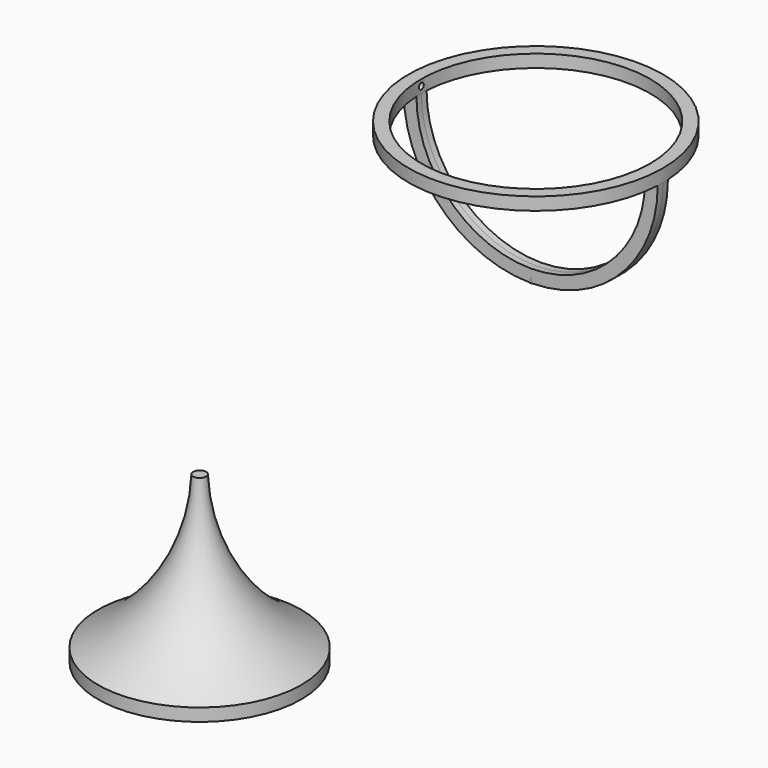
from build123d import *

# Parameters (mm, degrees)
F0_R           = 63.5
F0_R_2         = 57.15
F1_DEPTH       = 6.35
F3_ANGLE       = 180
F6_R           = 1.524
F7_DEPTH       = 59.69
F7_DEPTH_BACK  = 59.69
F9_R           = 79.8874363082
F10_DEPTH      = 63.5
F10_DEPTH_BACK = 6.3510001
F11_R          = 96.9810334846
F12_DEPTH      = 82.4715753285


with BuildPart() as f1:
    # F0 (on Top) → F1 (new body)
    with BuildSketch(Plane.XY):
        Circle(F0_R)
        Circle(F0_R_2, mode=Mode.SUBTRACT)
    extrude(amount=F1_DEPTH)

    # F2 (on face) → F3 (revolve)
    with BuildSketch(Plane(origin=(0, 0, 0), x_dir=(1, 0, 0), z_dir=(0, 0, -1))):
        with BuildLine():
            Line((63.4205753285, 3.175), (57.0617373991, 3.175))
            ThreePointArc((57.0617373991, 3.175), (57.1279300883, 1.5881132899), (57.15, 0))
            ThreePointArc((57.15, 0), (57.1279300883, -1.5881132899), (57.0617373991, -3.175))
            Line((57.0617373991, -3.175), (63.4205753285, -3.175))
            ThreePointArc((63.4205753285, -3.175), (63.4801407267, -1.5879966372), (63.5, 0))
            ThreePointArc((63.5, 0), (63.4801407267, 1.5879966372), (63.4205753285, 3.175))
        make_face()
    revolve(axis=Axis((0, -5.5111055262, 0), (0, 1, 0)), revolution_arc=F3_ANGLE)

    # F4 (on Front) → F5 (revolve)
    with BuildSketch(Plane.XZ):
        with BuildLine():
            ThreePointArc((50.8, -139.6205753285), (16.1124596806, -106.828220683), (3.175, -60.8805753285))
            Line((3.175, -60.8805753285), (0, -60.8805753285))
            Line((0, -60.8805753285), (0, -145.9705753285))
            Line((0, -145.9705753285), (50.8, -145.9705753285))
            Line((50.8, -145.9705753285), (50.8, -139.6205753285))
        make_face()
    revolve(axis=Axis((0, 0, -103.4255753285), (0, 0, 1)))

    # F6 (on Right) → F7 (cut, two sides)
    with BuildSketch(Plane.YZ) as f7_sk:
        with Locations((0, 3.175)):
            Circle(F6_R)
    extrude(amount=-F7_DEPTH, mode=Mode.SUBTRACT)
    extrude(f7_sk.sketch, amount=F7_DEPTH_BACK, mode=Mode.SUBTRACT)


with BuildPart() as f8_1:
    # F8: copy of F1
    add(f1.part.moved(Location((0, 209.804, 0))))

    # F11 (on face) → F12 (cut, through all)
    with BuildSketch(Plane.XY.offset(-63.5)):
        with Locations((0, 208.7470889091)):
            Circle(F11_R)
    extrude(amount=-F12_DEPTH, mode=Mode.SUBTRACT)


with BuildPart() as f1_1:
    add(f1.part)

    # F9 (on Top) → F10 (cut, two sides)
    with BuildSketch(Plane.XY) as f10_sk:
        Circle(F9_R)
    extrude(amount=-F10_DEPTH, mode=Mode.SUBTRACT)
    extrude(f10_sk.sketch, amount=F10_DEPTH_BACK, mode=Mode.SUBTRACT)


solid = Compound([f8_1.part, f1_1.part])
